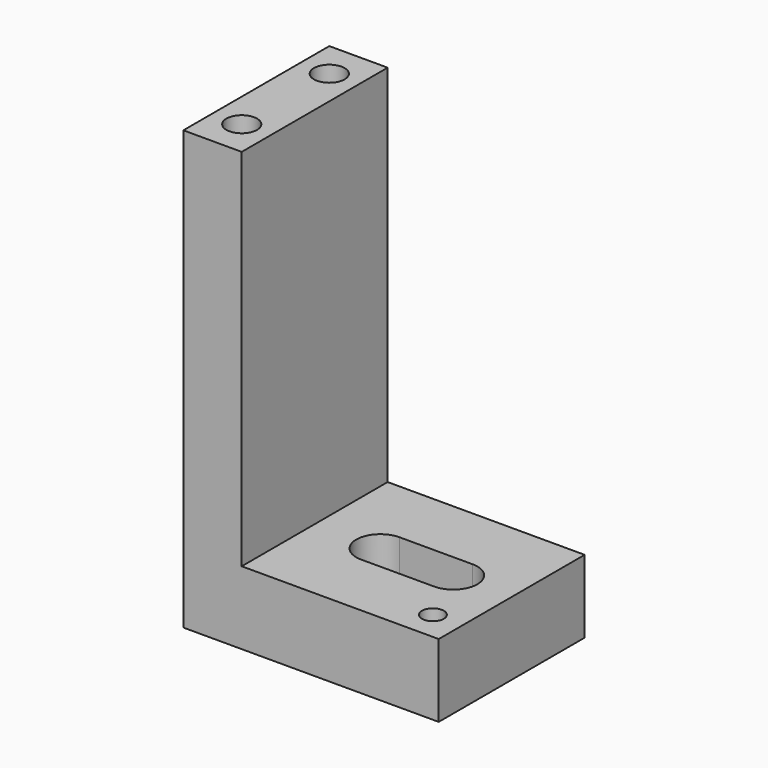
from build123d import *

# Parameters (mm, degrees)
F1_DEPTH = 25
F3_D     = 4.2
F3_DEPTH = 15
F3_TIP   = 1.2618073
F5_DEPTH = 25
F6_D     = 3
F6_DEPTH = 15
F6_TIP   = 0.9012909285


with BuildPart() as f1:
    # F0 (on Front) → F1 (new body)
    with BuildSketch(Plane.XZ):
        Polygon((0, 60), (0, 0), (35, 0), (35, 10), (8, 10), (8, 60), align=None)
    extrude(amount=F1_DEPTH)

    # F3
    with Locations(Plane.XY.offset(60)):
        with Locations((4, -5), (4, -20)):
            Hole(F3_D / 2, depth=F3_DEPTH)
            with Locations((0, 0, -(F3_DEPTH + F3_TIP / 2))):  # 118° drill point
                Cone(0, F3_D / 2, F3_TIP, mode=Mode.SUBTRACT)

    # F4 (on face) → F5 (cut)
    with BuildSketch(Plane.XY.offset(10)):
        with BuildLine():
            ThreePointArc((27, -15.8), (29.3334523779, -14.8334523779), (30.3, -12.5))
            ThreePointArc((30.3, -12.5), (29.3334523779, -10.1665476221), (27, -9.2))
            Line((27, -9.2), (27, -15.8))
        make_face()
        with BuildLine():
            Line((27, -15.8), (27, -9.2))
            ThreePointArc((27, -9.2), (23.7, -12.5), (27, -15.8))
        make_face()
        with BuildLine():
            ThreePointArc((27, -15.8), (23.7, -12.5), (27, -9.2))
            Line((27, -9.2), (17, -9.2))
            ThreePointArc((17, -9.2), (19.3334523779, -10.1665476221), (20.3, -12.5))
            ThreePointArc((20.3, -12.5), (19.3334523779, -14.8334523779), (17, -15.8))
            Line((17, -15.8), (27, -15.8))
        make_face()
        with BuildLine():
            ThreePointArc((20.3, -12.5), (19.3334523779, -10.1665476221), (17, -9.2))
            ThreePointArc((17, -9.2), (13.7, -12.5), (17, -15.8))
            ThreePointArc((17, -15.8), (19.3334523779, -14.8334523779), (20.3, -12.5))
        make_face()
    extrude(amount=-F5_DEPTH, mode=Mode.SUBTRACT)

    # F6
    with Locations(Plane.XY.offset(10)):
        with Locations((31, -21)):
            Hole(F6_D / 2, depth=F6_DEPTH)
            with Locations((0, 0, -(F6_DEPTH + F6_TIP / 2))):  # 118° drill point
                Cone(0, F6_D / 2, F6_TIP, mode=Mode.SUBTRACT)


solid = f1.part
